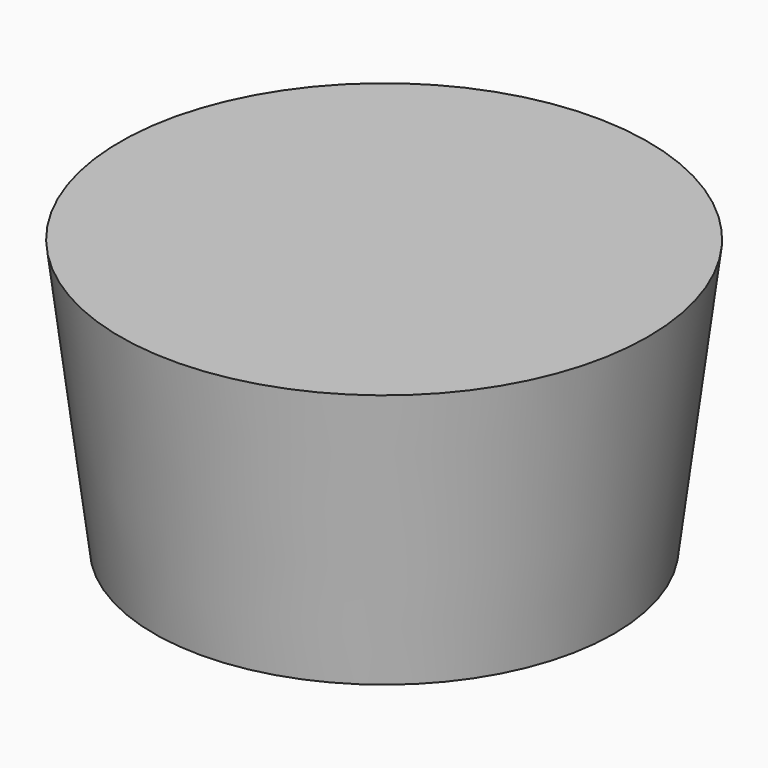
from build123d import *

# Parameters (mm, degrees)
SKETCH001_R  = 2.5
POCKET_DEPTH = 1


with BuildPart() as part:
    # Sketch → Revolution (revolve)
    with BuildSketch(Plane.XZ):
        Polygon((0, 0), (6.75, 0), (7.75, 8), (0, 8), align=None)
    revolve(axis=Axis((0, 0, 0), (0, 0, 1)))

    # Sketch001 (on Face1 of Revolution) → Pocket (cut)
    with BuildSketch(Plane(origin=(0, 0, 0), x_dir=(1, 0, 0), z_dir=(0, 0, -1))):
        Circle(SKETCH001_R)
    extrude(amount=-POCKET_DEPTH, mode=Mode.SUBTRACT)


solid = part.part
